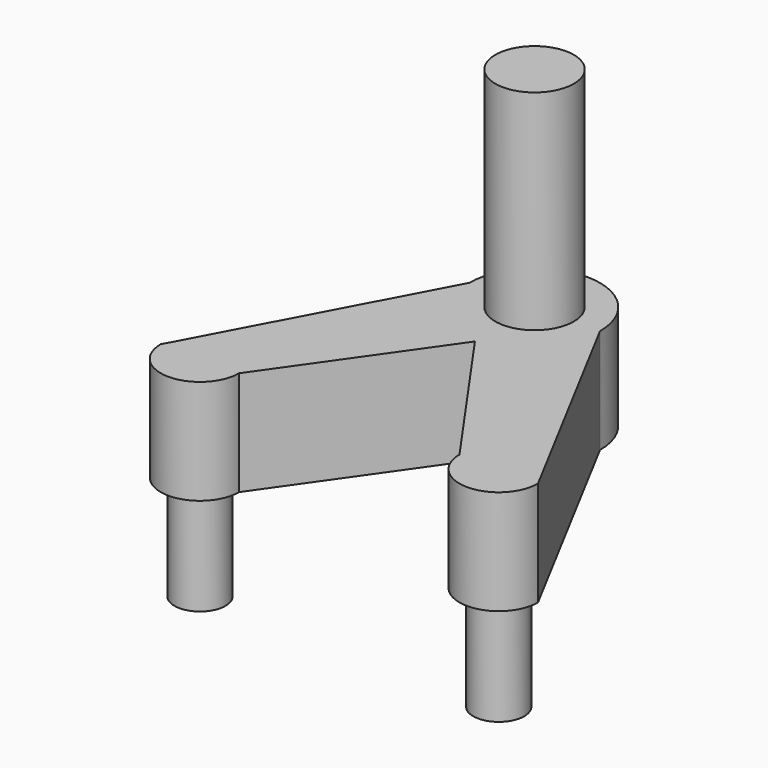
from build123d import *

# Parameters (mm, degrees)
PAD011_DEPTH = 4
SKETCH025_R  = 1.5
PAD012_DEPTH = 8
SKETCH026_R  = 0.975
PAD013_DEPTH = 4


with BuildPart() as part:
    # Sketch024 → Pad011 (new body)
    with BuildSketch(Plane.XY):
        with BuildLine():
            ThreePointArc((4.21, 0), (5.71, -1.5), (7.21, 0))
            Line((2.5, 8.850012), (7.21, 0))
            ThreePointArc((2.5, 8.850012), (0, 11.35), (-2.5, 8.850012))
            Line((-7.21, 0), (-2.5, 8.850012))
            ThreePointArc((-7.21, 0), (-5.71, -1.5), (-4.21, 0))
            Line((-4.21, 0), (0, 6))
            Line((0, 6), (4.21, 0))
        make_face()
    extrude(amount=PAD011_DEPTH)

    # Sketch025 (on Face9 of Pad011) → Pad012 (join)
    with BuildSketch(Plane.XY.offset(4)):
        with Locations((0, 8.85)):
            Circle(SKETCH025_R)
    extrude(amount=PAD012_DEPTH)

    # Sketch026 (on Face4 of Pad012) → Pad013 (join)
    with BuildSketch(Plane(origin=(0, 0, 0), x_dir=(1, 0, 0), z_dir=(0, 0, -1))):
        with Locations((-5.71, 0)):
            Circle(SKETCH026_R)
        with Locations((5.71, 0)):
            Circle(SKETCH026_R)
    extrude(amount=PAD013_DEPTH)


with BuildPart() as part_1:
    # Body004 placement: moved
    add(part.part.moved(Location((0, -23.5, 6))))


solid = part_1.part
